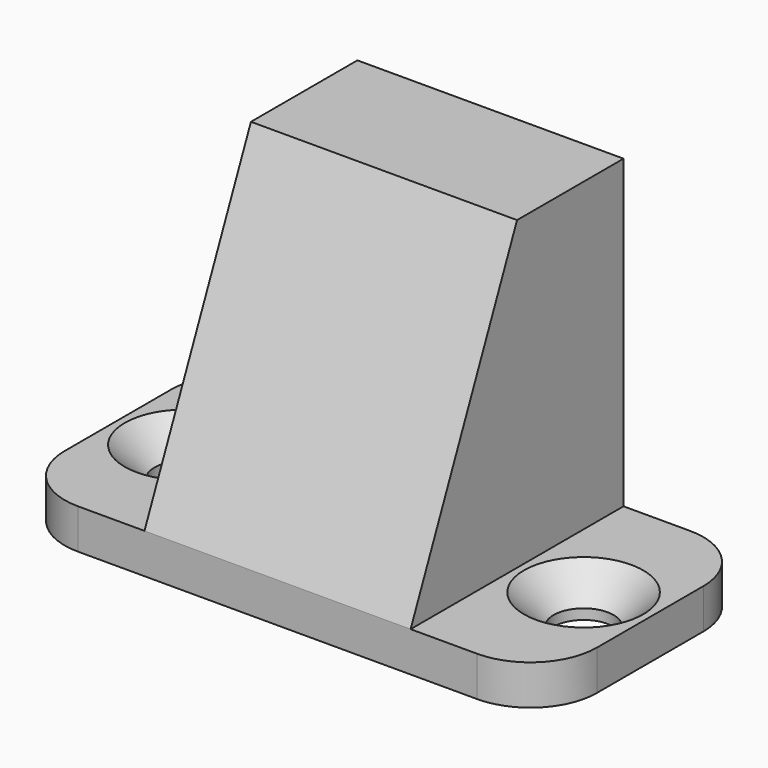
from build123d import *

# Parameters (mm, degrees)
F0_W           = 20
F0_H           = 23
F1_DEPTH       = 20
F2_SIZE2       = 23
F2_SIZE        = 10
F4_D           = 4.5
F4_DEPTH       = 12
F4_CSINK_D     = 8.96
F4_CSINK_ANGLE = 90
F4_TIP         = 1.3519363928
F5_R           = 5


with BuildPart() as f1:
    # F0 (on Front) → F1 (new body)
    with BuildSketch(Plane.XZ):
        with Locations((0, 11.5)):
            Rectangle(F0_W, F0_H)
        Polygon((10, 0), (-10, 0), (-20, 0), (-20, -3), (20, -3), (20, 0), align=None)
    extrude(amount=F1_DEPTH)

    # F2
    f2_edges = [f1.edges().sort_by_distance(p)[0] for p in [
        (0, -20, 23),
    ]]
    f2_side = f1.faces().sort_by_distance((0, -10, 23))[0]
    chamfer(f2_edges, length=F2_SIZE, length2=F2_SIZE2, reference=f2_side)

    # F4
    with Locations(Plane.XY):
        with Locations((-15, -10), (15, -10)):
            CounterSinkHole(F4_D / 2, F4_CSINK_D / 2, depth=F4_DEPTH, counter_sink_angle=F4_CSINK_ANGLE)
            with Locations((0, 0, -(F4_DEPTH + F4_TIP / 2))):  # 118° drill point
                Cone(0, F4_D / 2, F4_TIP, mode=Mode.SUBTRACT)

    # F5
    f5_edges = [f1.edges().sort_by_distance(p)[0] for p in [
        (-20, -20, -1.5),
        (20, -20, -1.5),
        (-20, 0, -1.5),
        (20, 0, -1.5),
    ]]
    fillet(f5_edges, radius=F5_R)


solid = f1.part
